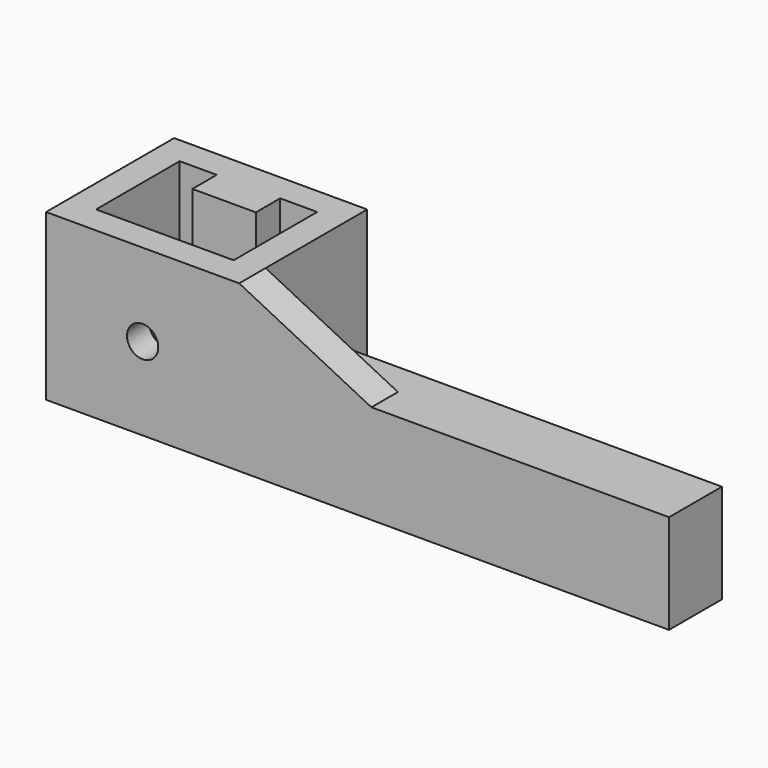
from build123d import *

# Parameters (mm, degrees)
F0_W      = 37.084
F0_H      = 30.734
F0_W_2    = 26.416
F0_H_2    = 20.066
F1_DEPTH  = 15.875
F2_W      = 12.192
F2_H      = 5.842
F3_DEPTH  = 31.75
F4_W      = 82.55
F4_H      = 12.7
F5_DEPTH  = 19.05
F7_DEPTH  = 6.35
F9_R      = 3
F10_DEPTH = 30.735


with BuildPart() as f1:
    # F0 (on Top) → F1 (new body, symmetric)
    with BuildSketch(Plane.XY):
        Rectangle(F0_W, F0_H)
        Rectangle(F0_W_2, F0_H_2, mode=Mode.SUBTRACT)
    extrude(amount=F1_DEPTH, both=True)

    # F2 (on face) → F3 (join)
    with BuildSketch(Plane.XY.offset(15.875)):
        with Locations((0, 7.112)):
            Rectangle(F2_W, F2_H)
    extrude(amount=-F3_DEPTH)

    # F4 (on face) → F5 (join)
    with BuildSketch(Plane(origin=(0, 0, -15.875), x_dir=(1, 0, 0), z_dir=(0, 0, -1))):
        with Locations((59.817, 9.017)):
            Rectangle(F4_W, F4_H)
    extrude(amount=-F5_DEPTH)

    # F6 (on face) → F7 (join)
    with BuildSketch(Plane.XZ.offset(15.367)):
        Polygon((43.942, 3.175), (18.542, 15.875), (18.542, 3.175), align=None)
    extrude(amount=-F7_DEPTH)

    # F9 (on face) → F10 (cut, through all)
    with BuildSketch(Plane.XZ.offset(15.367)):
        Circle(F9_R)
    extrude(amount=-F10_DEPTH, mode=Mode.SUBTRACT)


solid = f1.part
